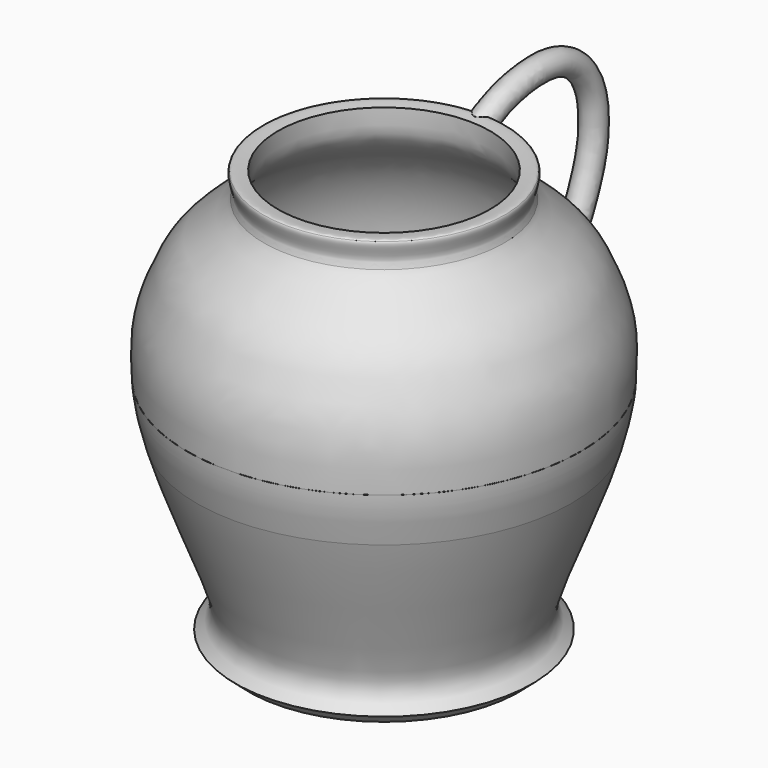
from build123d import *

# Parameters (mm, degrees)
F4_R = 5.9326102893


with BuildPart() as f1:
    # F0 (on Right) → F1 (revolve)
    with BuildSketch(Plane.YZ):
        with BuildLine():
            Line((21.0035387427, -78.5015374422), (21.0035387427, -84.5494195819))
            Line((21.0035387427, -84.5494195819), (80.2264660597, -84.5494195819))
            Line((80.2264660597, -84.5494195819), (80.2264660597, -90.012152642))
            Line((80.2264660597, -90.012152642), (87.6965597272, -90.012152642))
            Line((87.6965597272, -90.012152642), (94.082288444, -84.4289362431))
            add(Edge.make_bspline(
                [(94.082288444, -84.4289362431), (92.3738872366, -83.0076980203), (88.9835351958, -80.1872259394), (87.1045959567, -73.5126811581), (90.0131092042, -62.5541332421), (96.2476492207, -47.0073959475), (102.2979406677, -31.0572130313), (107.953769787, -16.7288086893), (111.5604432675, -5.8635248362), (113.2446229458, 0)],
                knots=[0, 0, 0, 0, 0.0379981617, 0.075420174, 0.1249630134, 0.1868680457, 0.2488977672, 0.30745191, 0.3702226859, 0.3702226859, 0.3702226859, 0.3702226859], degree=3))
            add(Edge.make_bspline(
                [(113.2446229458, 0), (114.9033284374, 5.7748356493), (117.212645425, 15.1372170678), (117.8148851259, 21.6430969665), (117.9662718934, 24.0703888431)],
                knots=[0.3702226859, 0.3702226859, 0.3702226859, 0.3702226859, 0.4320440176, 0.4665337581, 0.4665337581, 0.4665337581, 0.4665337581], degree=3))
            add(Edge.make_bspline(
                [(117.9690682879, 24.1153539348), (117.9603680731, 24.0896581148), (117.9631714085, 24.080063716), (117.9662718934, 24.0703888431)],
                knots=[0.9955297408, 0.9955297408, 0.9955297408, 0.9955297408, 1, 1, 1, 1], degree=3))
            add(Edge.make_bspline(
                [(117.9690682879, 24.1153539348), (118.0298730314, 25.0958724695), (118.2804424362, 30.0439409899), (118.7272641145, 41.0847896489), (116.4511449657, 54.4771611951), (110.0055314065, 69.7246057808), (104.2546373672, 79.6448262453), (92.6870466905, 90.1983640908), (84.6358825321, 95.8908917569), (81.104878366, 100.265786402), (80.1873654127, 102.1998003125)],
                knots=[0.4667466766, 0.4667466766, 0.4667466766, 0.4667466766, 0.4806719992, 0.5358659817, 0.5917855739, 0.6518529462, 0.7032103609, 0.7617464682, 0.809488284, 0.8497553004, 0.8497553004, 0.8497553004, 0.8497553004], degree=3))
            add(Edge.make_bspline(
                [(80.1873654127, 102.1998003125), (79.3796441137, 103.9023857884), (78.8174329525, 107.3804000394), (81.5779918846, 113.4314788964), (80.5971100926, 114.5961359143)],
                knots=[0.8497553004, 0.8497553004, 0.8497553004, 0.8497553004, 0.8852038754, 0.9244697332, 0.9244697332, 0.9244697332, 0.9244697332], degree=3))
            add(Edge.make_bspline(
                [(80.5971100926, 114.5961359143), (79.5864107397, 115.7961970268), (75.9939422246, 114.8563985279), (73.2843577862, 114.5961359143)],
                knots=[0.9244697332, 0.9244697332, 0.9244697332, 0.9244697332, 0.9649292232, 0.9649292232, 0.9649292232, 0.9649292232], degree=3))
            add(Edge.make_bspline(
                [(82.515090704, -78.5015374422), (82.163501857, -77.1645000075), (81.3790699561, -74.1814280195), (81.5906530908, -67.4006331631), (84.5185567332, -59.2605208819), (88.70818538, -48.9384919732), (95.4121248716, -32.8980169433), (101.7243507766, -15.2551155999), (109.014058561, 4.2934516881), (112.2321532098, 19.6688466463), (112.416380904, 30.6336732043), (111.5824092223, 45.2341849874), (107.9057424839, 59.3066953152), (101.7693074871, 72.0720531928), (94.5897108488, 81.5917410304), (85.7507044603, 88.5562179254), (77.2173785756, 95.9622408761), (73.0288721391, 103.4471890205), (73.212957295, 110.7111288839), (73.2843577862, 114.5961359143)],
                knots=[0, 0, 0, 0, 0.0353365888, 0.0788407953, 0.1283615695, 0.184994781, 0.2554668977, 0.3299665545, 0.4078796822, 0.4744615379, 0.5302767487, 0.5945903822, 0.6597985892, 0.7234091458, 0.7815571193, 0.8386511187, 0.8952321897, 0.9436865705, 1, 1, 1, 1], degree=3))
            Line((82.515090704, -78.5015374422), (21.0035387427, -78.5015374422))
        make_face()
    revolve(axis=Axis((0, 21.0035387427, 12.487847358), (0, 0, 1)))

    # F5: sweep along a path in F2
    with BuildLine(Plane.YZ) as f5_path:
        Line((77.0766511559, 108.0654487014), (80.2186578512, 110.0415363908))
        add(Plane.YZ * Edge.make_bspline(
            [(80.2186578512, 110.0415363908), (82.0210981874, 111.0318271005), (86.0566016889, 113.2508094235), (95.243573271, 117.0956497349), (104.7264842737, 119.1166957049), (113.8811447408, 119.9892769265), (125.7219379698, 119.794791523), (139.4484601907, 113.2132710684), (147.2336208657, 101.6047350059), (150.1751169991, 90.2728654236), (149.9763288649, 76.8958388519), (147.8146090356, 65.3466742408), (140.0439409456, 46.5244289429), (133.603911899, 36.2934685342), (124.8534693295, 22.8032168965), (119.5584661625, 18.6348506138), (117.1500012279, 16.6161246598)],
            knots=[0, 0, 0, 0, 0.0528994011, 0.1180862709, 0.1826101021, 0.2448852839, 0.3154842963, 0.3950083005, 0.4709899123, 0.5415103014, 0.6155518748, 0.6877274807, 0.7795902581, 0.8539626662, 0.935255155, 1, 1, 1, 1], degree=3))
        Line((117.1500012279, 16.6161246598), (113.8193979859, 14.0831163153))
    # F4 (on line) → F5 (sweep)
    with BuildSketch(Plane(origin=(0, 108.058820109, 59.3693136521), x_dir=(-1, 0, 0), z_dir=(0, 0.876431715, 0.4815261663))):
        with Locations((0, 57.8844882548)):
            Circle(F4_R)
    sweep(path=f5_path.line, transition=Transition.RIGHT)


solid = f1.part
